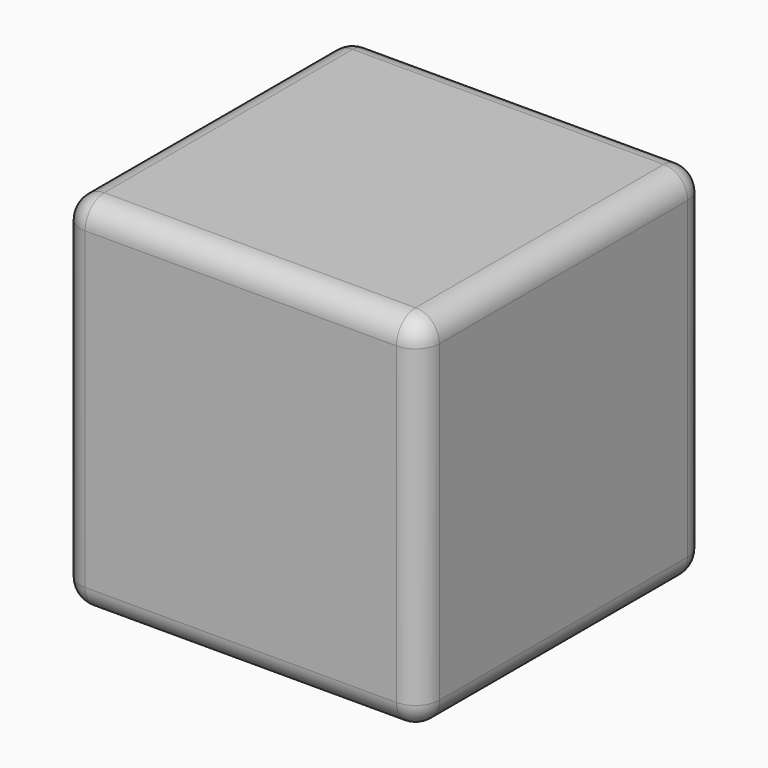
from build123d import *

# Parameters (mm, degrees)
F0_W          = 76.410934
F0_H          = 76.96464
F1_DEPTH      = 38.1
F1_DEPTH_BACK = 38.1
F2_R          = 5.08


with BuildPart() as f1:
    # F0 (on Front) → F1 (new body, two sides)
    with BuildSketch(Plane.XZ) as f1_sk:
        Rectangle(F0_W, F0_H)
    extrude(amount=F1_DEPTH)
    extrude(f1_sk.sketch, amount=-F1_DEPTH_BACK)

    # F2
    f2_edges = [f1.edges().sort_by_distance(p)[0] for p in [
        (38.205467, 0, 38.48232),
        (0, 38.1, 38.48232),
        (38.205467, 38.1, 0),
        (38.205467, 0, -38.48232),
        (-38.205467, 38.1, 0),
        (0, 38.1, -38.48232),
        (0, -38.1, 38.48232),
        (-38.205467, -38.1, 0),
        (0, -38.1, -38.48232),
        (38.205467, -38.1, 0),
        (-38.205467, 0, -38.48232),
        (-38.205467, 0, 38.48232),
    ]]
    fillet(f2_edges, radius=F2_R)


solid = f1.part
